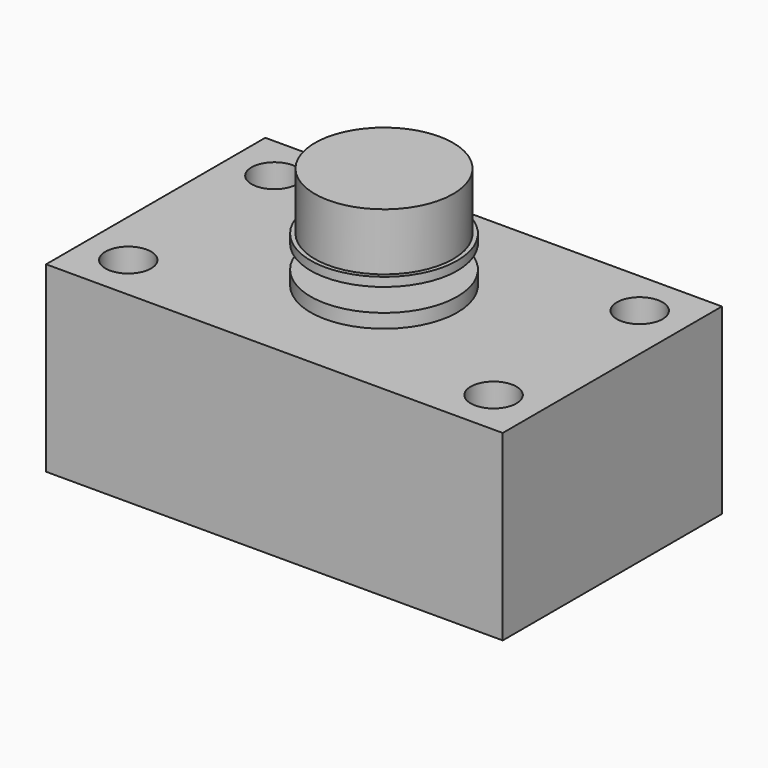
from build123d import *

# Parameters (mm, degrees)
F0_W     = 127
F0_H     = 76.2
F0_R     = 6.35
F1_DEPTH = 50.8
F2_W     = 20.4032771289
F2_H     = 12.7
F4_W     = 19.2373767495
F4_H     = 15.927048564
F6_W     = 38.1
F6_H     = 6.35


with BuildPart() as f1:
    # F0 (on Top) → F1 (new body)
    with BuildSketch(Plane.XY):
        Rectangle(F0_W, F0_H)
        with Locations((-50.8, -25.4)):
            Circle(F0_R, mode=Mode.SUBTRACT)
        with Locations((50.8, -25.4)):
            Circle(F0_R, mode=Mode.SUBTRACT)
        with Locations((-50.8, 25.4)):
            Circle(F0_R, mode=Mode.SUBTRACT)
        with Locations((50.8, 25.4)):
            Circle(F0_R, mode=Mode.SUBTRACT)
    extrude(amount=F1_DEPTH)

    # F2 (on Front) → F3 (revolve)
    with BuildSketch(Plane.XZ):
        with Locations((10.2016385645, 57.15)):
            Rectangle(F2_W, F2_H)
    revolve(axis=Axis((0, 0, 57.15), (0, 0, 1)))

    # F4 (on Front) → F5 (revolve)
    with BuildSketch(Plane.XZ):
        with Locations((9.6186883748, 71.463524282)):
            Rectangle(F4_W, F4_H)
    revolve(axis=Axis((0, 0, 71.463524282), (0, 0, 1)))

    # F6 (on Front) → F7 (revolve, cut)
    with BuildSketch(Plane.XZ):
        with Locations((19.05, 57.8555281689)):
            Rectangle(F6_W, F6_H)
    revolve(axis=Axis((0, 0, 57.8555281689), (0, 0, 1)), mode=Mode.SUBTRACT)


solid = f1.part
